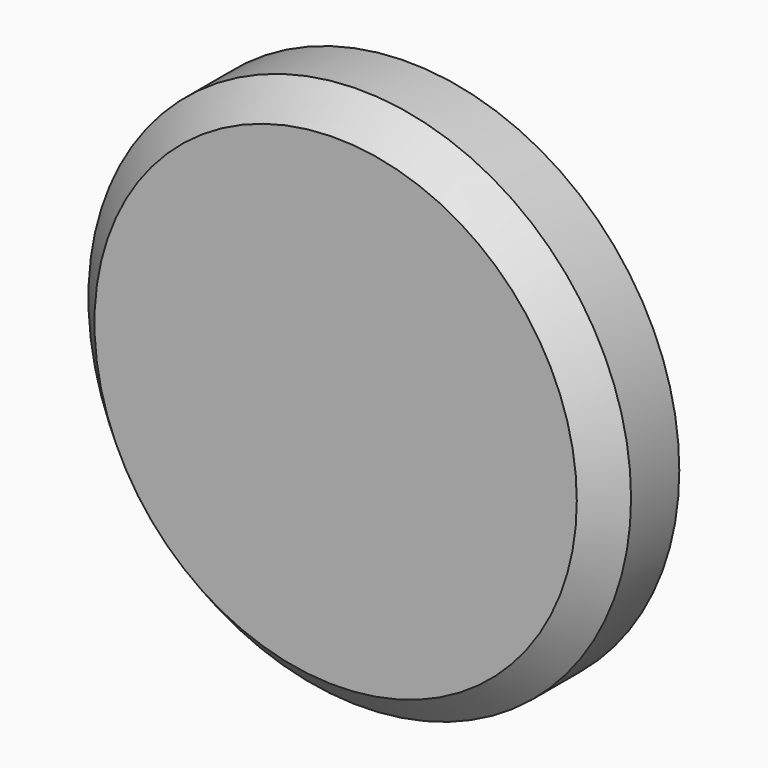
from build123d import *

# Parameters (mm, degrees)
F0_R     = 9
F1_DEPTH = 3
F2_SIZE  = 1


with BuildPart() as f1:
    # F0 (on Front) → F1 (new body)
    with BuildSketch(Plane.XZ):
        Circle(F0_R)
    extrude(amount=-F1_DEPTH)

    # F2
    f2_edges = [f1.edges().sort_by_distance(p)[0] for p in [
        (-9, 0, 0),
    ]]
    chamfer(f2_edges, length=F2_SIZE)


solid = f1.part
